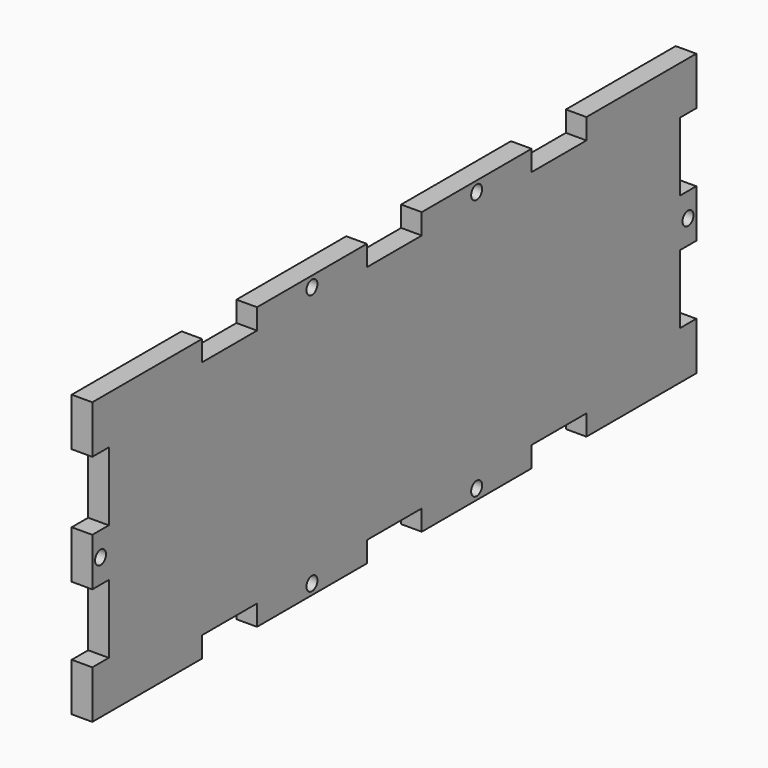
from build123d import *

# Parameters (mm, degrees)
F0_R     = 1
F1_DEPTH = 3


with BuildPart() as f1:
    # F0 (on Right) → F1 (new body)
    with BuildSketch(Plane.YZ):
        Polygon((-98.437788, -2.690871), (-98.437788, -9.690871), (-78.437788, -9.690871), (-78.437788, -6.690871), (-68.437788, -6.690871), (-68.437788, -9.690871), (-48.437788, -9.690871), (-48.437788, -6.690871), (-43.437788, -6.690871), (-38.437788, -6.690871), (-38.437788, -9.690871), (-18.437788, -9.690871), (-18.437788, -6.690871), (-8.437788, -6.690871), (-8.437788, -9.690871), (11.562212, -9.690871), (11.562212, -2.690871), (8.562212, -2.690871), (8.562212, 7.309129), (11.562212, 7.309129), (11.562212, 14.309129), (8.562212, 14.309129), (8.562212, 24.309129), (11.562212, 24.309129), (11.562212, 31.309129), (-8.437788, 31.309129), (-8.437788, 28.309129), (-18.437788, 28.309129), (-18.437788, 31.309129), (-38.437788, 31.309129), (-38.437788, 28.309129), (-43.437788, 28.309129), (-48.437788, 28.309129), (-48.437788, 31.309129), (-68.437788, 31.309129), (-68.437788, 28.309129), (-78.437788, 28.309129), (-78.437788, 31.309129), (-98.437788, 31.309129), (-98.437788, 24.309129), (-95.437788, 24.309129), (-95.437788, 14.309129), (-98.437788, 14.309129), (-98.437788, 7.309129), (-95.437788, 7.309129), (-95.437788, -2.690871), align=None)
        with Locations((-58.437788, -8.190871)):
            Circle(F0_R, mode=Mode.SUBTRACT)
        with Locations((-28.437788, -8.190871)):
            Circle(F0_R, mode=Mode.SUBTRACT)
        with Locations((-96.937788, 10.809129)):
            Circle(F0_R, mode=Mode.SUBTRACT)
        with Locations((-58.437788, 29.809129)):
            Circle(F0_R, mode=Mode.SUBTRACT)
        with Locations((10.062212, 10.809129)):
            Circle(F0_R, mode=Mode.SUBTRACT)
        with Locations((-28.437788, 29.809129)):
            Circle(F0_R, mode=Mode.SUBTRACT)
    extrude(amount=F1_DEPTH)


solid = f1.part
